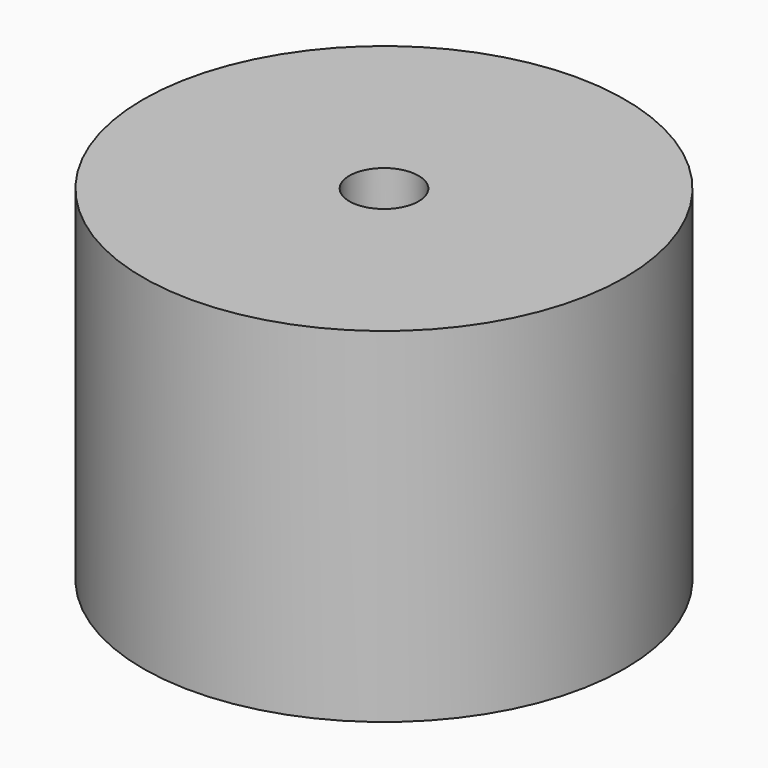
from build123d import *

# Parameters (mm, degrees)
SKETCH_W        = 8.99
SKETCH_H        = 15
SKETCH001_R     = 1
POCKET_DEPTH    = 26
POCKET001_START = -7
SKETCH002_R     = 2.5
POCKET001_DEPTH = 28


with BuildPart() as part:
    # Sketch → Revolution (revolve)
    with BuildSketch(Plane.XZ):
        with Locations((6.005, 7.5)):
            Rectangle(SKETCH_W, SKETCH_H)
    revolve(axis=Axis((0, 0, 0), (0, 0, 1)))

    # Sketch001 → Pocket (cut)
    with BuildSketch(Plane.XZ):
        with Locations((0, 12.5)):
            Circle(SKETCH001_R)
    extrude(amount=-POCKET_DEPTH, mode=Mode.SUBTRACT)

    # Sketch002 → Pocket001 (cut)
    with BuildSketch(Plane.XZ.offset(POCKET001_START)):
        with Locations((0, 12.5)):
            Circle(SKETCH002_R)
    extrude(amount=-POCKET001_DEPTH, mode=Mode.SUBTRACT)


solid = part.part
